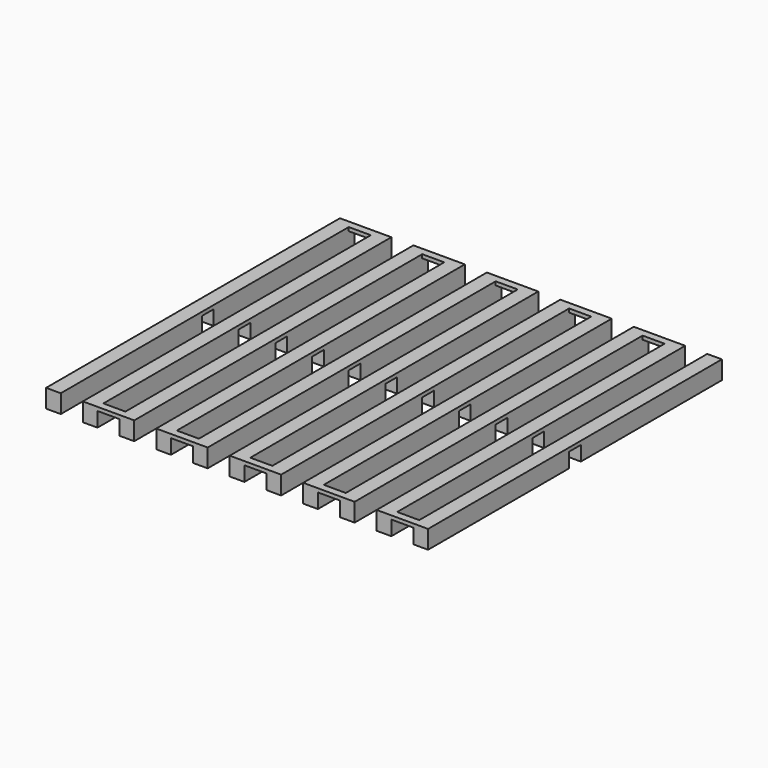
from build123d import *

# Parameters (mm, degrees)
F1_DEPTH = 0.5
F2_W     = 2
F2_H     = 24
F3_DEPTH = 2


with BuildPart() as f1:
    # F0 (on Top) → F1 (new body)
    with BuildSketch(Plane.XY):
        Polygon((7, 0), (0, 0), (0, -50), (2, -50), (2, -1), (5, -1), (5, -50), (12, -50), (12, -1), (15, -1), (15, -50), (22, -50), (22, -1), (25, -1), (25, -50), (32, -50), (32, -1), (35, -1), (35, -50), (42, -50), (42, -1), (45, -1), (45, -50), (52, -50), (52, -1), (52, 0), (50, 0), (50, -49), (47, -49), (47, 0), (40, 0), (40, -49), (37, -49), (37, 0), (30, 0), (30, -49), (27, -49), (27, 0), (20, 0), (20, -49), (17, -49), (17, 0), (10, 0), (10, -49), (7, -49), align=None)
    extrude(amount=F1_DEPTH)

    # F2 (on face) → F3 (join)
    with BuildSketch(Plane(origin=(0, 0, 0), x_dir=(1, 0, 0), z_dir=(0, 0, -1))):
        with Locations((1, 12)):
            Rectangle(F2_W, F2_H)
        with Locations((1, 38)):
            Rectangle(F2_W, F2_H)
        with Locations((6, 12)):
            Rectangle(F2_W, F2_H)
        with Locations((6, 38)):
            Rectangle(F2_W, F2_H)
        with Locations((11, 12)):
            Rectangle(F2_W, F2_H)
        with Locations((11, 38)):
            Rectangle(F2_W, F2_H)
        with Locations((16, 12)):
            Rectangle(F2_W, F2_H)
        with Locations((16, 38)):
            Rectangle(F2_W, F2_H)
        with Locations((21, 12)):
            Rectangle(F2_W, F2_H)
        with Locations((21, 38)):
            Rectangle(F2_W, F2_H)
        with Locations((26, 12)):
            Rectangle(F2_W, F2_H)
        with Locations((26, 38)):
            Rectangle(F2_W, F2_H)
        with Locations((31, 12)):
            Rectangle(F2_W, F2_H)
        with Locations((31, 38)):
            Rectangle(F2_W, F2_H)
        with Locations((36, 12)):
            Rectangle(F2_W, F2_H)
        with Locations((36, 38)):
            Rectangle(F2_W, F2_H)
        with Locations((41, 12)):
            Rectangle(F2_W, F2_H)
        with Locations((41, 38)):
            Rectangle(F2_W, F2_H)
        with Locations((46, 12)):
            Rectangle(F2_W, F2_H)
        with Locations((46, 38)):
            Rectangle(F2_W, F2_H)
        with Locations((51, 12)):
            Rectangle(F2_W, F2_H)
        with Locations((51, 38)):
            Rectangle(F2_W, F2_H)
    extrude(amount=F3_DEPTH)


solid = f1.part
